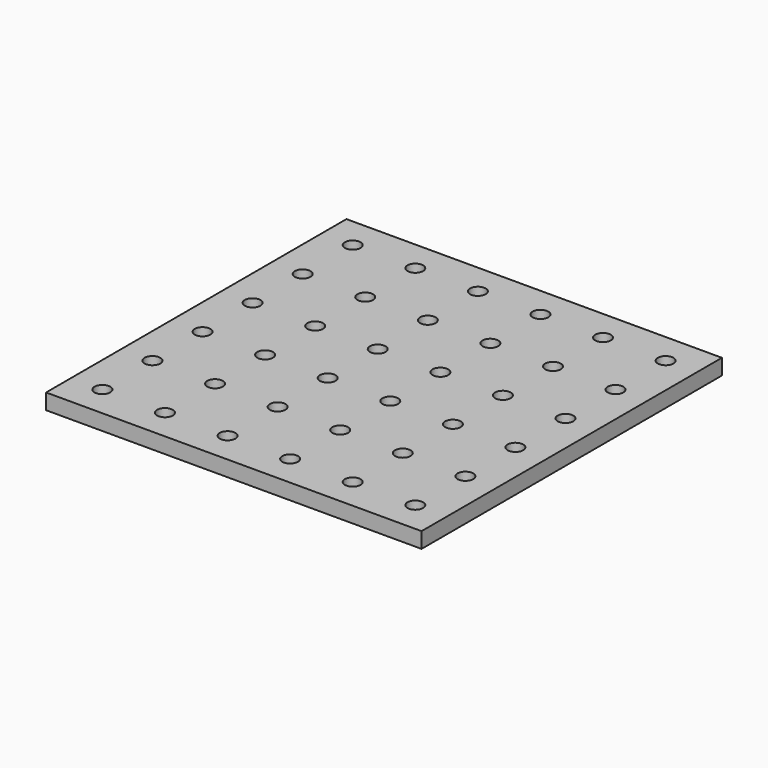
from build123d import *

# Parameters (mm, degrees)
F0_W     = 152.4
F0_H     = 152.4
F0_R     = 3.175
F1_DEPTH = 6.35


with BuildPart() as f1:
    # F0 (on Top) → F1 (new body)
    with BuildSketch(Plane.XY):
        Rectangle(F0_W, F0_H)
        with Locations((-63.5, -63.5)):
            Circle(F0_R, mode=Mode.SUBTRACT)
        with Locations((-38.1, -63.5)):
            Circle(F0_R, mode=Mode.SUBTRACT)
        with Locations((-12.7, -63.5)):
            Circle(F0_R, mode=Mode.SUBTRACT)
        with Locations((-63.5, -38.1)):
            Circle(F0_R, mode=Mode.SUBTRACT)
        with Locations((-63.5, -12.7)):
            Circle(F0_R, mode=Mode.SUBTRACT)
        with Locations((-38.1, -38.1)):
            Circle(F0_R, mode=Mode.SUBTRACT)
        with Locations((-12.7, -38.1)):
            Circle(F0_R, mode=Mode.SUBTRACT)
        with Locations((-38.1, -12.7)):
            Circle(F0_R, mode=Mode.SUBTRACT)
        with Locations((-12.7, -12.7)):
            Circle(F0_R, mode=Mode.SUBTRACT)
        with Locations((12.7, -63.5)):
            Circle(F0_R, mode=Mode.SUBTRACT)
        with Locations((38.1, -63.5)):
            Circle(F0_R, mode=Mode.SUBTRACT)
        with Locations((63.5, -63.5)):
            Circle(F0_R, mode=Mode.SUBTRACT)
        with Locations((12.7, -38.1)):
            Circle(F0_R, mode=Mode.SUBTRACT)
        with Locations((12.7, -12.7)):
            Circle(F0_R, mode=Mode.SUBTRACT)
        with Locations((38.1, -38.1)):
            Circle(F0_R, mode=Mode.SUBTRACT)
        with Locations((63.5, -38.1)):
            Circle(F0_R, mode=Mode.SUBTRACT)
        with Locations((38.1, -12.7)):
            Circle(F0_R, mode=Mode.SUBTRACT)
        with Locations((63.5, -12.7)):
            Circle(F0_R, mode=Mode.SUBTRACT)
        with Locations((-63.5, 12.7)):
            Circle(F0_R, mode=Mode.SUBTRACT)
        with Locations((-38.1, 12.7)):
            Circle(F0_R, mode=Mode.SUBTRACT)
        with Locations((-12.7, 12.7)):
            Circle(F0_R, mode=Mode.SUBTRACT)
        with Locations((-63.5, 38.1)):
            Circle(F0_R, mode=Mode.SUBTRACT)
        with Locations((-63.5, 63.5)):
            Circle(F0_R, mode=Mode.SUBTRACT)
        with Locations((-38.1, 38.1)):
            Circle(F0_R, mode=Mode.SUBTRACT)
        with Locations((-12.7, 38.1)):
            Circle(F0_R, mode=Mode.SUBTRACT)
        with Locations((-38.1, 63.5)):
            Circle(F0_R, mode=Mode.SUBTRACT)
        with Locations((-12.7, 63.5)):
            Circle(F0_R, mode=Mode.SUBTRACT)
        with Locations((12.7, 12.7)):
            Circle(F0_R, mode=Mode.SUBTRACT)
        with Locations((38.1, 12.7)):
            Circle(F0_R, mode=Mode.SUBTRACT)
        with Locations((63.5, 12.7)):
            Circle(F0_R, mode=Mode.SUBTRACT)
        with Locations((12.7, 38.1)):
            Circle(F0_R, mode=Mode.SUBTRACT)
        with Locations((12.7, 63.5)):
            Circle(F0_R, mode=Mode.SUBTRACT)
        with Locations((38.1, 38.1)):
            Circle(F0_R, mode=Mode.SUBTRACT)
        with Locations((63.5, 38.1)):
            Circle(F0_R, mode=Mode.SUBTRACT)
        with Locations((38.1, 63.5)):
            Circle(F0_R, mode=Mode.SUBTRACT)
        with Locations((63.5, 63.5)):
            Circle(F0_R, mode=Mode.SUBTRACT)
    extrude(amount=F1_DEPTH)


solid = f1.part
